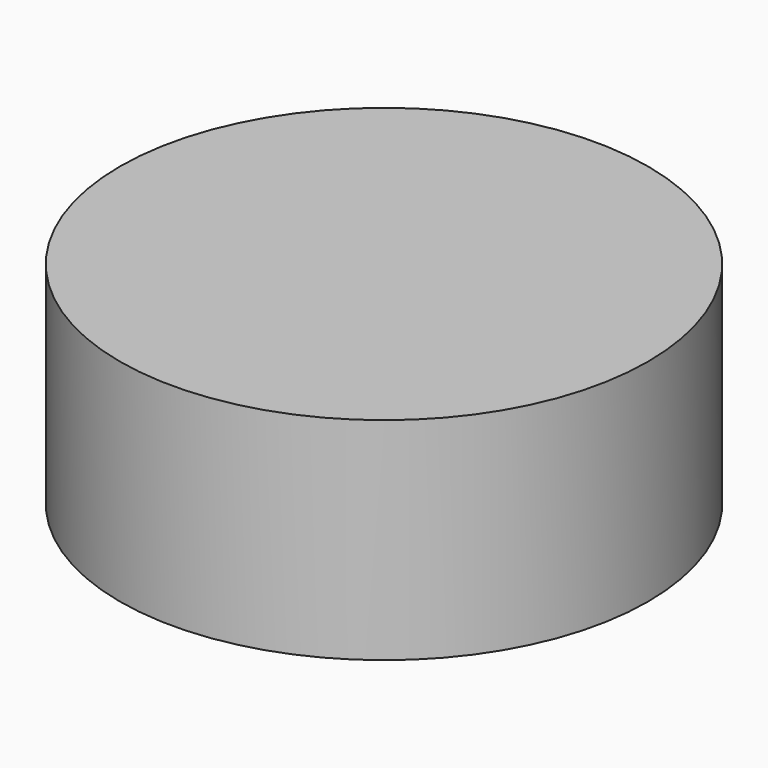
from build123d import *

# Parameters (mm, degrees)
CYLINDER004_R     = 5
CYLINDER004_DEPTH = 4


with BuildPart() as f_623zz:
    # Cylinder004 → Cylinder004 (new body)
    with BuildSketch(Plane(origin=(95, 22, 8), x_dir=(1, 0, 0), z_dir=(0, 0, 1))):
        Circle(CYLINDER004_R)
    extrude(amount=CYLINDER004_DEPTH)


with BuildPart() as part_mirroring011:
    # Part__Mirroring011: instance of 623ZZ
    add(f_623zz.part.mirror(Plane(origin=(0, 0, 0), x_dir=(1, 0, 0), z_dir=(0, 1, 0))))


with BuildPart() as part_mirroring015:
    # Part__Mirroring015: instance of Part__Mirroring011
    add(part_mirroring011.part.mirror(Plane(origin=(0, 0, 0), x_dir=(0, -1, 0), z_dir=(1, 0, 0))))


solid = part_mirroring015.part
